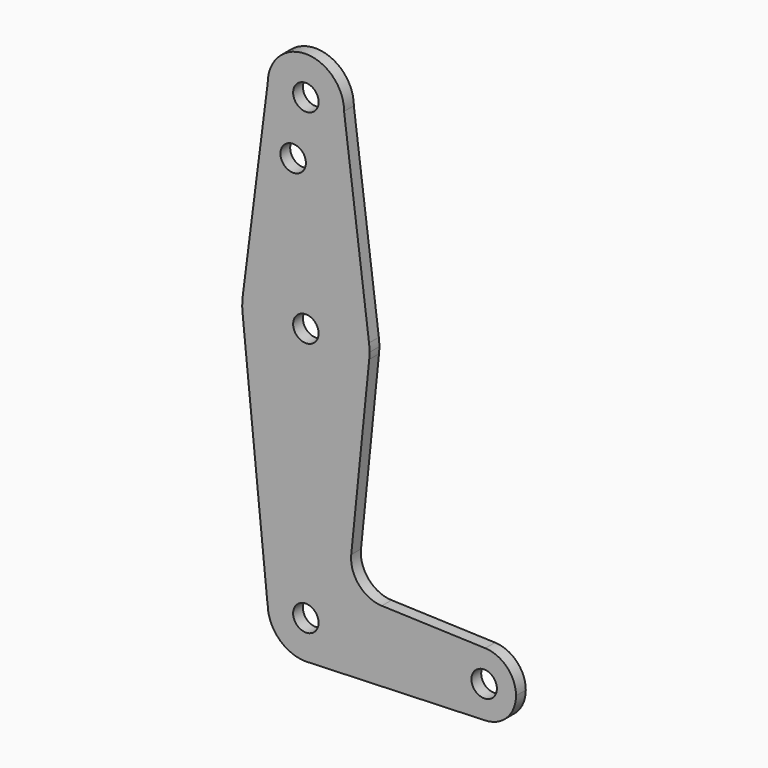
from build123d import *

# Parameters (mm, degrees)
F0_R     = 3.175
F1_DEPTH = 3.048


with BuildPart() as f1:
    # F0 (on Front) → F1 (new body)
    with BuildSketch(Plane.XZ):
        with BuildLine():
            ThreePointArc((-9.525, 114.3), (0, 104.775), (9.525, 114.3))
            ThreePointArc((9.525, 114.3), (0, 123.825), (-9.525, 114.3))
        make_face()
        with Locations((0, 114.3)):
            Circle(F0_R, mode=Mode.SUBTRACT)
        with BuildLine():
            Line((15.7474569047, 65.5082893304), (9.525, 114.3))
            ThreePointArc((9.525, 114.3), (0, 104.775), (-9.525, 114.3))
            Line((-9.525, 114.3), (-15.7474569047, 65.5082893304))
            ThreePointArc((-15.7474569047, 65.5082893304), (0, 79.375), (15.7474569047, 65.5082893304))
        make_face()
        with Locations((-3.175, 99.886942851)):
            Circle(F0_R, mode=Mode.SUBTRACT)
        with BuildLine():
            ThreePointArc((15.875, 63.5), (15.8430821396, 64.5061676396), (15.7474569047, 65.5082893304))
            ThreePointArc((15.7474569047, 65.5082893304), (0, 79.375), (-15.7474569047, 65.5082893304))
            ThreePointArc((-15.7474569047, 65.5082893304), (-15.8735876171, 63.7117573215), (-15.7954255641, 61.9125))
            ThreePointArc((-15.7954255641, 61.9125), (-0.0060905531, 47.6250011683), (15.7942028036, 61.9003804205))
            ThreePointArc((15.7942028036, 61.9003804205), (15.8547878338, 62.6991705884), (15.875, 63.5))
        make_face()
        with Locations((0, 63.5)):
            Circle(F0_R, mode=Mode.SUBTRACT)
        with BuildLine():
            ThreePointArc((15.7942028036, 61.9003804205), (-0.0060905531, 47.6250011683), (-15.7954255641, 61.9125))
            Line((-15.7954255641, 61.9125), (-9.5729851903, 0))
            Line((-9.5729851903, 0), (-9.525, 0))
            ThreePointArc((-9.525, 0), (0, 9.525), (9.525, 0))
            ThreePointArc((9.525, 0), (6.9705567315, -6.4912990883), (0.6773435479, -9.500885786))
            Line((0.6773435479, -9.500885786), (44.7324052746, -7.9324746146))
            ThreePointArc((44.7324052746, -7.9324746146), (36.5125, 0), (44.7324052746, 7.9324746146))
            Line((44.7324052746, 7.9324746146), (18.9341027877, 8.850924033))
            ThreePointArc((18.9341027877, 8.850924033), (13.2249738114, 11.5709798305), (11.3072231466, 17.5971800924))
            Line((11.3072231466, 17.5971800924), (15.7942028036, 61.9003804205))
        make_face()
        with BuildLine():
            Line((-3.175, 0), (-9.525, 0))
            ThreePointArc((-9.525, 0), (-6.7351920908, -6.7351920908), (0, -9.525))
            Line((0, -9.525), (0.6773435479, -9.500885786))
            ThreePointArc((0.6773435479, -9.500885786), (6.9705567315, -6.4912990883), (9.525, 0))
            Line((9.525, 0), (3.175, 0))
            ThreePointArc((3.175, 0), (0, -3.175), (-3.175, 0))
        make_face()
        with BuildLine():
            ThreePointArc((9.525, 0), (0, 9.525), (-9.525, 0))
            Line((-9.525, 0), (-3.175, 0))
            ThreePointArc((-3.175, 0), (0, 3.175), (3.175, 0))
            Line((3.175, 0), (9.525, 0))
        make_face()
        with BuildLine():
            Line((0.6773435479, -9.500885786), (0, -9.525))
            ThreePointArc((0, -9.525), (0.3388863295, -9.5189695375), (0.6773435479, -9.500885786))
        make_face()
        with BuildLine():
            ThreePointArc((52.3875, 0), (50.1616327839, 5.5119104847), (44.7324052746, 7.9324746146))
            ThreePointArc((44.7324052746, 7.9324746146), (36.5125, 0), (44.7324052746, -7.9324746146))
            ThreePointArc((44.7324052746, -7.9324746146), (50.1616327839, -5.5119104847), (52.3875, 0))
        make_face()
        with Locations((44.45, 0)):
            Circle(F0_R, mode=Mode.SUBTRACT)
    extrude(amount=-F1_DEPTH)


solid = f1.part
